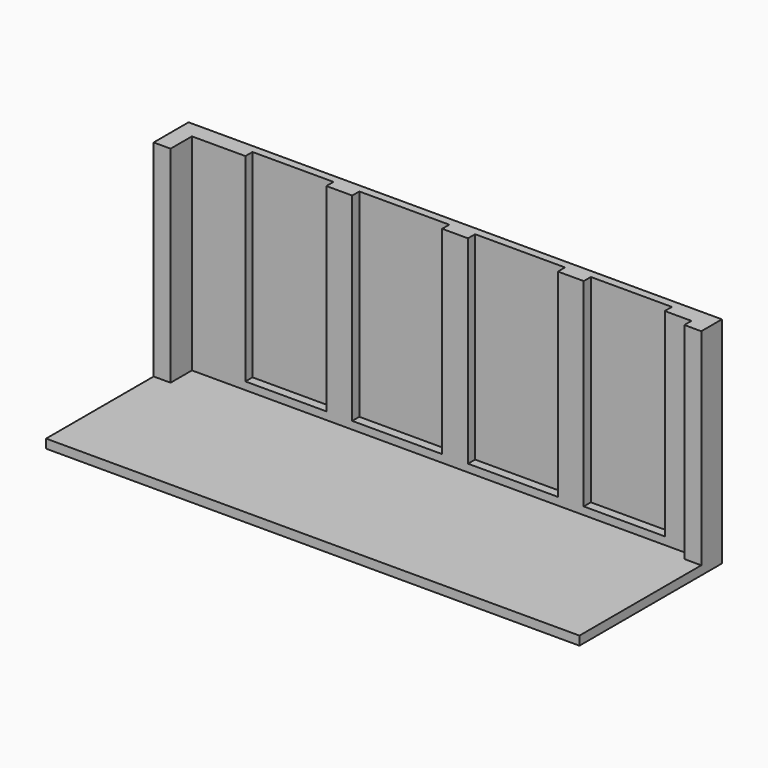
from build123d import *

# Parameters (mm, degrees)
F1_DEPTH = 2314
F2_W     = 5990
F2_H     = 2000
F3_DEPTH = 100
F4_W     = 910
F4_H     = 100
F4_W_2   = 1010
F5_DEPTH = 86


with BuildPart() as f1:
    # F0 (on Top) → F1 (new body)
    with BuildSketch(Plane.XY):
        Polygon((2995, -290), (2995, 0), (-2995, 0), (-2995, -490), (-2805, -490), (-2805, -190), (-2205, -190), (-2205, -90), (-1295, -90), (-1295, -190), (-1005, -190), (-1005, -90), (5, -90), (5, -190), (295, -190), (295, -90), (1305, -90), (1305, -190), (1595, -190), (1595, -90), (2505, -90), (2505, -190), (2805, -190), (2805, -290), align=None)
    extrude(amount=F1_DEPTH)

    # F2 (on face) → F3 (join)
    with BuildSketch(Plane(origin=(0, 0, 0), x_dir=(1, 0, 0), z_dir=(0, 0, -1))):
        with Locations((0, 1000)):
            Rectangle(F2_W, F2_H)
    extrude(amount=F3_DEPTH)

    # F4 (on face) → F5 (join)
    with BuildSketch(Plane.XY):
        with Locations((-1750, -140)):
            Rectangle(F4_W, F4_H)
        with Locations((-500, -140)):
            Rectangle(F4_W_2, F4_H)
        with Locations((800, -140)):
            Rectangle(F4_W_2, F4_H)
        with Locations((2050, -140)):
            Rectangle(F4_W, F4_H)
    extrude(amount=F5_DEPTH)


solid = f1.part
